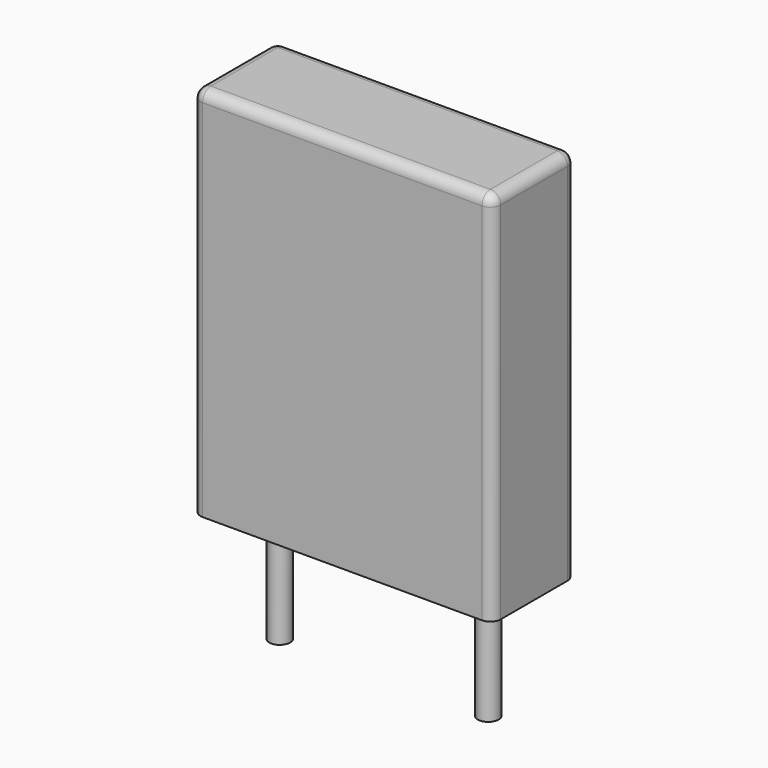
from build123d import *

# Parameters (mm, degrees)
SKETCH_W     = 7.2
SKETCH_H     = 2.5
PAD_DEPTH    = 9
FILLET_R     = 0.25
SKETCH001_R  = 0.25
PAD001_DEPTH = 3.2


with BuildPart() as fillet_body:
    # Sketch → Pad (new body)
    with BuildSketch(Plane.XY.offset(0.1)):
        with Locations((2.5, 0)):
            Rectangle(SKETCH_W, SKETCH_H)
    extrude(amount=PAD_DEPTH)

    # Fillet
    fillet_edges = [fillet_body.edges().sort_by_distance(p)[0] for p in [
        (-1.1, 0, 9.1),
        (-1.1, -1.25, 4.6),
        (2.5, -1.25, 9.1),
        (6.1, -1.25, 4.6),
        (6.1, 0, 9.1),
        (6.1, 1.25, 4.6),
        (2.5, 1.25, 9.1),
        (-1.1, 1.25, 4.6),
    ]]
    fillet(fillet_edges, radius=FILLET_R)


with BuildPart() as pad001:
    # Sketch001 → Pad001 (new body)
    with BuildSketch(Plane.XY.offset(0.5)):
        Circle(SKETCH001_R)
        with Locations((5, 0)):
            Circle(SKETCH001_R)
    extrude(amount=-PAD001_DEPTH)


solid = Compound([fillet_body.part, pad001.part])
